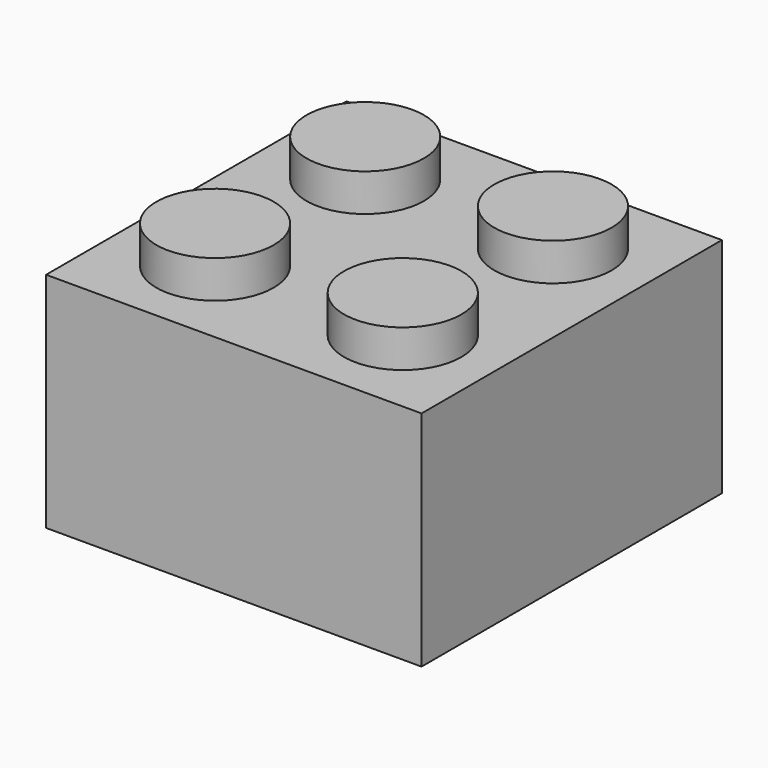
from build123d import *

# Parameters (mm, degrees)
F0_W     = 16
F0_H     = 16
F1_DEPTH = 9.5
F2_R     = 2.5
F3_DEPTH = 1.6


with BuildPart() as f1:
    # F0 (on Top) → F1 (new body)
    with BuildSketch(Plane.XY):
        Rectangle(F0_W, F0_H)
    extrude(amount=F1_DEPTH)

    # F2 (on face) → F3 (join)
    with BuildSketch(Plane.XY.offset(9.5)):
        with Locations((-4, 4)):
            Circle(F2_R)
        with Locations((4, -4)):
            Circle(F2_R)
        with Locations((4, 4)):
            Circle(F2_R)
        with Locations((-4, -4)):
            Circle(F2_R)
    extrude(amount=F3_DEPTH)


solid = f1.part
